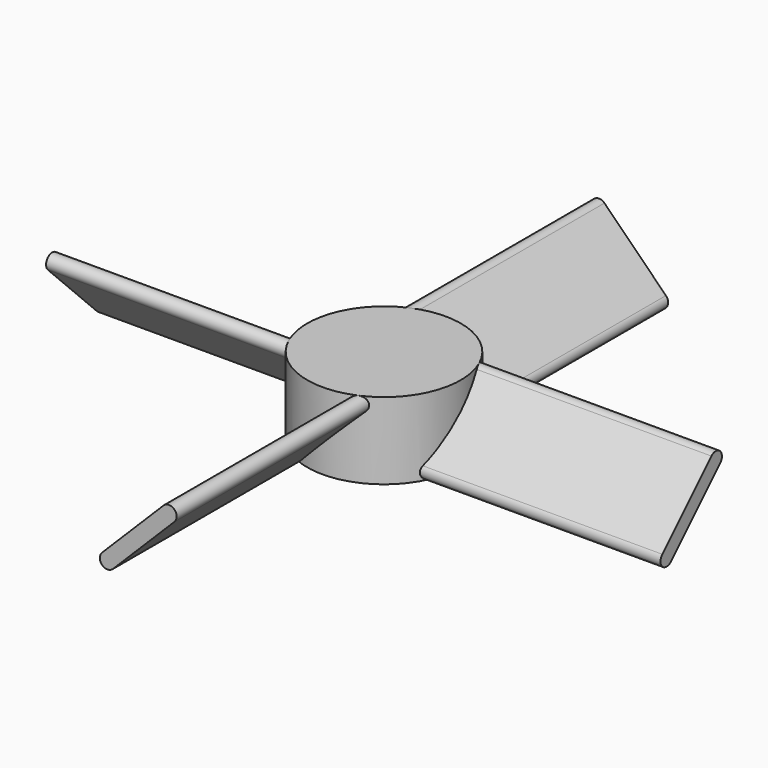
from build123d import *

# Parameters (mm, degrees)
F0_R     = 12.7
F1_DEPTH = 6.35
F3_DEPTH = 50.8
F4_COUNT = 4


with BuildPart() as f1:
    # F0 (on Top) → F1 (new body, symmetric)
    with BuildSketch(Plane.XY):
        Circle(F0_R)
    extrude(amount=F1_DEPTH, both=True)

    # F2 (on Right) → F3 (join)
    with BuildSketch(Plane.YZ):
        with BuildLine():
            Line((-4.1819743879, -5.9780256121), (5.9780256121, 4.1819743879))
            ThreePointArc((5.9780256121, 4.1819743879), (5.9780256121, 5.9780256121), (4.1819743879, 5.9780256121))
            Line((4.1819743879, 5.9780256121), (-5.9780256121, -4.1819743879))
            ThreePointArc((-5.9780256121, -4.1819743879), (-5.9780256121, -5.9780256121), (-4.1819743879, -5.9780256121))
        make_face()
    extrude(amount=F3_DEPTH)

    # F4: F1 ×4 about axis
    f4_axis = Axis((0, 0, 0), (0, 0, 1))


with BuildPart() as f1_1:
    add(f1.part)
    for i in range(1, F4_COUNT):
        add(f1.part.rotate(f4_axis, i * 360 / F4_COUNT))


solid = f1_1.part
